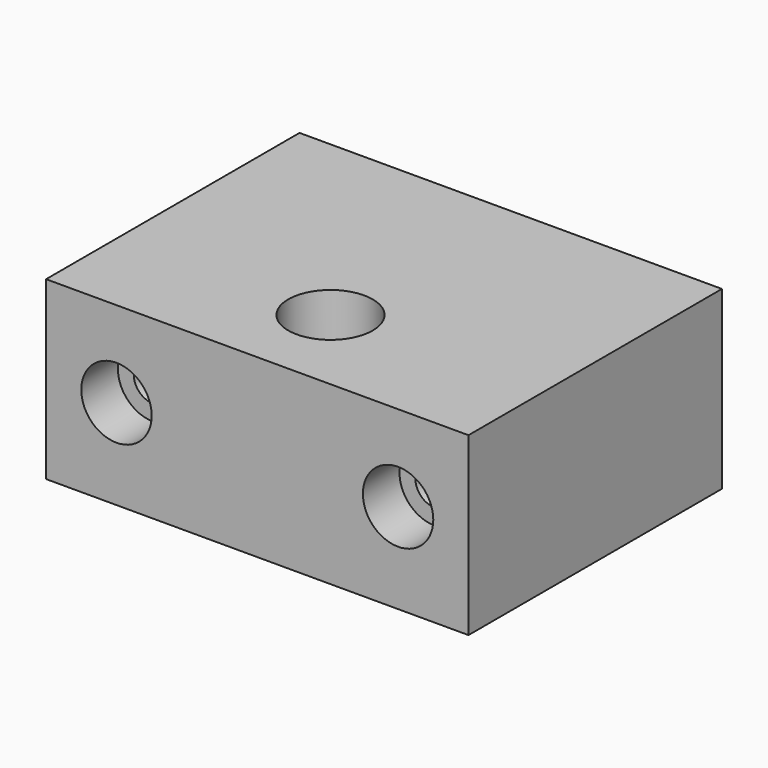
from build123d import *

# Parameters (mm, degrees)
F0_W     = 60
F0_H     = 45
F0_R     = 6
F1_DEPTH = 25
F2_R     = 2.75
F3_DEPTH = 45
F2_R_2   = 5
F4_DEPTH = 6.5


with BuildPart() as f1:
    # F0 (on Top) → F1 (new body)
    with BuildSketch(Plane.XY):
        Rectangle(F0_W, F0_H)
        with Locations((0, -9.5)):
            Circle(F0_R, mode=Mode.SUBTRACT)
    extrude(amount=F1_DEPTH)

    # F2 (on face) → F3 (cut)
    with BuildSketch(Plane.XZ.offset(22.5)):
        with Locations((-20, 12.798888)):
            Circle(F2_R)
        with Locations((20, 12.798888)):
            Circle(F2_R)
    extrude(amount=-F3_DEPTH, mode=Mode.SUBTRACT)

    # F2 (on face) → F4 (cut)
    with BuildSketch(Plane.XZ.offset(22.5)):
        with Locations((-20, 12.798888)):
            Circle(F2_R_2)
        with Locations((-20, 12.798888)):
            Circle(F2_R, mode=Mode.SUBTRACT)
        with Locations((20, 12.798888)):
            Circle(F2_R_2)
        with Locations((20, 12.798888)):
            Circle(F2_R, mode=Mode.SUBTRACT)
    extrude(amount=-F4_DEPTH, mode=Mode.SUBTRACT)


solid = f1.part
